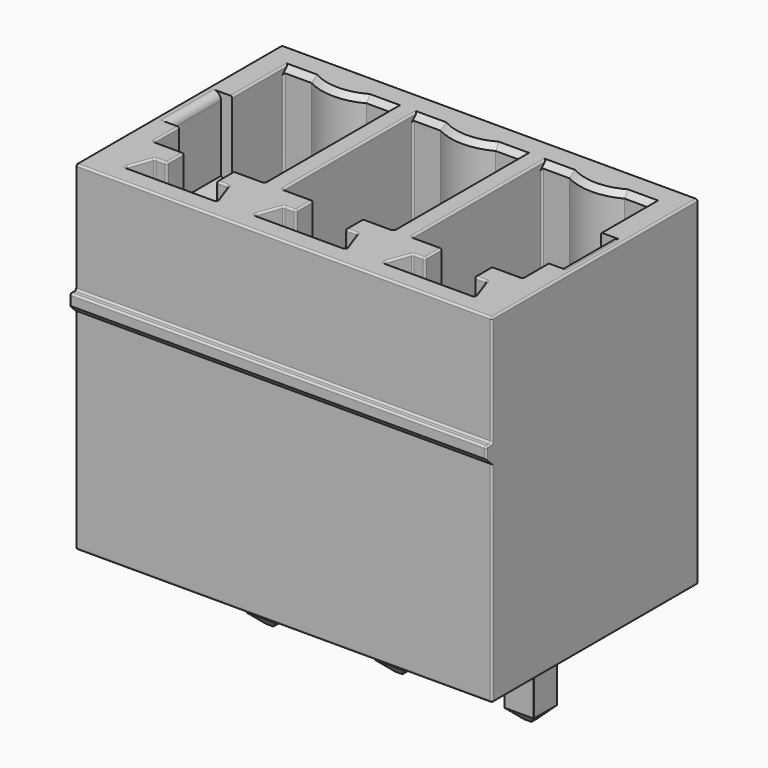
from build123d import *

# Parameters (mm, degrees)
SKETCH_W               = 0.8
SKETCH_H               = 0.8
PAD_DEPTH              = 10.4
CHAMFER_SIZE           = 0.3
CHAMFER001_SIZE        = 0.3
CHAMFER002_SIZE        = 0.3
CHAMFER003_SIZE        = 0.3
CHAMFER004_SIZE        = 0.3
CHAMFER005_SIZE        = 0.3
CHAMFER006_SIZE        = 0.3
CHAMFER007_SIZE        = 0.3
CHAMFER008_SIZE        = 0.3
FILLET_R               = 0.01
FILLET001_R            = 0.01
FILLET002_R            = 0.01
SKETCH004_W            = 0.8
SKETCH004_H            = 0.8
PAD002_DEPTH           = 10.4
SKETCH001_W            = 11.3
SKETCH001_H            = 7
PAD001_DEPTH           = 9.2
POCKET_DEPTH           = 8
LINEARPATTERN_COUNT    = 3
LINEARPATTERN_PITCH    = 3.5
SKETCH003_W            = 1.3
SKETCH003_H            = 1.8
POCKET001_DEPTH        = 2
SKETCH005_R            = 1
PAD003_DEPTH           = 1.2
LINEARPATTERN001_COUNT = 3
LINEARPATTERN001_PITCH = 3.5
SKETCH006_W            = 11.3
SKETCH006_H            = 0.5
PAD004_DEPTH           = 0.2
CHAMFER009_SIZE        = 0.1999
CHAMFER010_SIZE        = 0.15
CHAMFER011_SIZE        = 0.15
CHAMFER012_SIZE        = 0.15
CHAMFER013_SIZE        = 0.15
CHAMFER014_SIZE        = 0.15
CHAMFER015_SIZE        = 0.15
FILLET003_R            = 0.4
FILLET004_R            = 0.4
FILLET005_R            = 0.4
CHAMFER016_SIZE        = 0.29999
CHAMFER017_SIZE        = 0.29999
FILLET006_R            = 0.2
FILLET007_R            = 0.2
FILLET008_R            = 0.05
FILLET009_R            = 0.05
FILLET010_R            = 0.05
FILLET011_R            = 0.05
FILLET012_R            = 0.05
FILLET013_R            = 0.05
FILLET014_R            = 0.05
FILLET015_R            = 0.05
FILLET016_R            = 0.05
FILLET017_R            = 0.05
FILLET018_R            = 0.05
FILLET019_R            = 0.05
FILLET020_R            = 0.05
FILLET021_R            = 0.05
FILLET022_R            = 0.05
FILLET023_R            = 0.05
FILLET024_R            = 0.05
FILLET025_R            = 0.05
FILLET026_R            = 0.05
FILLET027_R            = 0.049
FILLET028_R            = 0.049
FILLET029_R            = 0.05
FILLET030_R            = 0.05
FILLET031_R            = 0.049
FILLET032_R            = 0.049
FILLET033_R            = 0.049
FILLET034_R            = 0.049


with BuildPart() as contacts:
    # Sketch → Pad (new body)
    with BuildSketch(Plane(origin=(0, 0, -1.5), x_dir=(1, 0, 0), z_dir=(0, 0, -1))):
        with Locations((-3.5, 0)):
            Rectangle(SKETCH_W, SKETCH_H)
        Rectangle(SKETCH_W, SKETCH_H)
        with Locations((3.5, 0)):
            Rectangle(SKETCH_W, SKETCH_H)
    extrude(amount=PAD_DEPTH)

    # Chamfer
    chamfer_edges = [contacts.edges().sort_by_distance(p)[0] for p in [
        (-3.5, -0.4, -1.5),
    ]]
    chamfer(chamfer_edges, length=CHAMFER_SIZE)

    # Chamfer001
    chamfer001_edges = [contacts.edges().sort_by_distance(p)[0] for p in [
        (-3.5, 0.4, -1.5),
    ]]
    chamfer(chamfer001_edges, length=CHAMFER001_SIZE)

    # Chamfer002
    chamfer002_edges = [contacts.edges().sort_by_distance(p)[0] for p in [
        (-3.1, 0, -1.5),
    ]]
    chamfer(chamfer002_edges, length=CHAMFER002_SIZE)

    # Chamfer003
    chamfer003_edges = [contacts.edges().sort_by_distance(p)[0] for p in [
        (-3.9, 0, -1.5),
    ]]
    chamfer(chamfer003_edges, length=CHAMFER003_SIZE)

    # Chamfer004
    chamfer004_edges = [contacts.edges().sort_by_distance(p)[0] for p in [
        (-0.4, 0, -1.5),
        (0, -0.4, -1.5),
        (0.4, 0, -1.5),
        (0, 0.4, -1.5),
    ]]
    chamfer(chamfer004_edges, length=CHAMFER004_SIZE)

    # Chamfer005
    chamfer005_edges = [contacts.edges().sort_by_distance(p)[0] for p in [
        (3.1, 0, -1.5),
        (3.5, -0.4, -1.5),
        (3.9, 0, -1.5),
        (3.5, 0.4, -1.5),
    ]]
    chamfer(chamfer005_edges, length=CHAMFER005_SIZE)

    # Chamfer006
    chamfer006_edges = [contacts.edges().sort_by_distance(p)[0] for p in [
        (-3.9, 0, -11.9),
        (-3.5, -0.4, -11.9),
        (-3.1, 0, -11.9),
        (-3.5, 0.4, -11.9),
    ]]
    chamfer(chamfer006_edges, length=CHAMFER006_SIZE)

    # Chamfer007
    chamfer007_edges = [contacts.edges().sort_by_distance(p)[0] for p in [
        (0, 0.4, -11.9),
        (0.4, 0, -11.9),
        (-0.4, 0, -11.9),
        (0, -0.4, -11.9),
    ]]
    chamfer(chamfer007_edges, length=CHAMFER007_SIZE)

    # Chamfer008
    chamfer008_edges = [contacts.edges().sort_by_distance(p)[0] for p in [
        (3.5, 0.4, -11.9),
        (3.9, 0, -11.9),
        (3.5, -0.4, -11.9),
        (3.1, 0, -11.9),
    ]]
    chamfer(chamfer008_edges, length=CHAMFER008_SIZE)

    # Fillet
    fillet_edges = [contacts.edges().sort_by_distance(p)[0] for p in [
        (-3.1, -0.4, -6.7),
        (-3.9, -0.4, -6.7),
        (-3.1, 0.4, -6.7),
        (-3.9, 0.4, -6.7),
    ]]
    fillet(fillet_edges, radius=FILLET_R)

    # Fillet001
    fillet001_edges = [contacts.edges().sort_by_distance(p)[0] for p in [
        (0.4, -0.4, -6.7),
        (-0.4, -0.4, -6.7),
        (0.4, 0.4, -6.7),
        (-0.4, 0.4, -6.7),
    ]]
    fillet(fillet001_edges, radius=FILLET001_R)

    # Fillet002
    fillet002_edges = [contacts.edges().sort_by_distance(p)[0] for p in [
        (3.9, -0.4, -6.7),
        (3.1, -0.4, -6.7),
        (3.9, 0.4, -6.7),
        (3.1, 0.4, -6.7),
    ]]
    fillet(fillet002_edges, radius=FILLET002_R)


with BuildPart() as pad002:
    # Sketch004 → Pad002 (new body)
    with BuildSketch(Plane(origin=(0, 0, -2), x_dir=(1, 0, 0), z_dir=(0, 0, -1))):
        with Locations((-3.5, 0)):
            Rectangle(SKETCH004_W, SKETCH004_H)
        Rectangle(SKETCH004_W, SKETCH004_H)
        with Locations((3.5, 0)):
            Rectangle(SKETCH004_W, SKETCH004_H)
    extrude(amount=PAD002_DEPTH)


with BuildPart() as module:
    # Sketch001 → Pad001 (new body)
    with BuildSketch(Plane(origin=(0, 0, 0), x_dir=(1, 0, 0), z_dir=(0, 0, -1))):
        with Locations((0, 0.5)):
            Rectangle(SKETCH001_W, SKETCH001_H)
    extrude(amount=PAD001_DEPTH)

    # Sketch002 → Pocket (cut)
    with BuildSketch(Plane.XY):
        with BuildLine():
            Line((-2, 2.25), (-2.75, 2.25))
            ThreePointArc((-4.25, 2.25), (-3.5, 2.063329), (-2.75, 2.25))
            Line((-4.25, 2.25), (-5, 2.25))
            Line((-5, 2.25), (-5, -2.15))
            Line((-5, -2.15), (-4.17, -2.15))
            Line((-4.17, -2.15), (-4.17, -2.75))
            Line((-4.17, -2.75), (-4.5, -2.75))
            Line((-4.5, -2.75), (-4.75, -3.45))
            Line((-4.75, -3.45), (-2.25, -3.45))
            Line((-2.25, -3.45), (-2.5, -2.75))
            Line((-2.5, -2.75), (-2.83, -2.75))
            Line((-2.83, -2.75), (-2.83, -2.15))
            Line((-2.83, -2.15), (-2, -2.15))
            Line((-2, -2.15), (-2, 2.25))
        make_face()
    pocket = extrude(amount=-POCKET_DEPTH, mode=Mode.SUBTRACT)

    # LinearPattern: Pocket ×3
    with Locations(*[(i * LINEARPATTERN_PITCH, 0, 0) for i in range(1, LINEARPATTERN_COUNT)]):
        add(pocket, mode=Mode.SUBTRACT)

    # Sketch003 → Pocket001 (cut)
    with BuildSketch(Plane.XY):
        with Locations((-4.65, -0.4)):
            Rectangle(SKETCH003_W, SKETCH003_H)
        with Locations((4.65, -0.4)):
            Rectangle(SKETCH003_W, SKETCH003_H)
    extrude(amount=-POCKET001_DEPTH, mode=Mode.SUBTRACT)

    # Sketch005 → Pad003 (new body)
    with BuildSketch(Plane.XY.offset(-8)):
        with Locations((-3.5, 0)):
            Circle(SKETCH005_R)
    pad003 = extrude(amount=PAD003_DEPTH)

    # LinearPattern001: Pad003 ×3
    with Locations(*[(i * LINEARPATTERN001_PITCH, 0, 0) for i in range(1, LINEARPATTERN001_COUNT)]):
        add(pad003)

    # Cut: cut Pad002
    add(pad002.part, mode=Mode.SUBTRACT)

    # Sketch006 → Pad004 (new body)
    with BuildSketch(Plane.XZ.offset(4)):
        with Locations((0, -3.25)):
            Rectangle(SKETCH006_W, SKETCH006_H)
    extrude(amount=PAD004_DEPTH)

    # Chamfer009
    chamfer009_edges = [module.edges().sort_by_distance(p)[0] for p in [
        (0, -4.2, -3.5),
    ]]
    chamfer(chamfer009_edges, length=CHAMFER009_SIZE)

    # Chamfer010
    chamfer010_edges = [module.edges().sort_by_distance(p)[0] for p in [
        (-4.625, 2.25, 0),
        (-2.375, 2.25, 0),
    ]]
    chamfer(chamfer010_edges, length=CHAMFER010_SIZE)

    # Chamfer011
    chamfer011_edges = [module.edges().sort_by_distance(p)[0] for p in [
        (-3.5, 2.063329, 0),
    ]]
    chamfer(chamfer011_edges, length=CHAMFER011_SIZE)

    # Chamfer012
    chamfer012_edges = [module.edges().sort_by_distance(p)[0] for p in [
        (-1.125, 2.25, 0),
        (1.125, 2.25, 0),
    ]]
    chamfer(chamfer012_edges, length=CHAMFER012_SIZE)

    # Chamfer013
    chamfer013_edges = [module.edges().sort_by_distance(p)[0] for p in [
        (0, 2.063329, 0),
    ]]
    chamfer(chamfer013_edges, length=CHAMFER013_SIZE)

    # Chamfer014
    chamfer014_edges = [module.edges().sort_by_distance(p)[0] for p in [
        (2.375, 2.25, 0),
        (4.625, 2.25, 0),
    ]]
    chamfer(chamfer014_edges, length=CHAMFER014_SIZE)

    # Chamfer015
    chamfer015_edges = [module.edges().sort_by_distance(p)[0] for p in [
        (3.5, 2.063329, 0),
    ]]
    chamfer(chamfer015_edges, length=CHAMFER015_SIZE)

    # Fillet003
    fillet003_edges = [module.edges().sort_by_distance(p)[0] for p in [
        (-4.5, 0, -6.8),
    ]]
    fillet(fillet003_edges, radius=FILLET003_R)

    # Fillet004
    fillet004_edges = [module.edges().sort_by_distance(p)[0] for p in [
        (-1, 0, -6.8),
    ]]
    fillet(fillet004_edges, radius=FILLET004_R)

    # Fillet005
    fillet005_edges = [module.edges().sort_by_distance(p)[0] for p in [
        (2.5, 0, -6.8),
    ]]
    fillet(fillet005_edges, radius=FILLET005_R)

    # Chamfer016
    chamfer016_edges = [module.edges().sort_by_distance(p)[0] for p in [
        (-5, -0.4, -2),
    ]]
    chamfer(chamfer016_edges, length=CHAMFER016_SIZE)

    # Chamfer017
    chamfer017_edges = [module.edges().sort_by_distance(p)[0] for p in [
        (5, -0.4, -2),
    ]]
    chamfer(chamfer017_edges, length=CHAMFER017_SIZE)

    # Fillet006
    fillet006_edges = [module.edges().sort_by_distance(p)[0] for p in [
        (-5.3, -0.4, 0),
    ]]
    fillet(fillet006_edges, radius=FILLET006_R)

    # Fillet007
    fillet007_edges = [module.edges().sort_by_distance(p)[0] for p in [
        (5.3, -0.4, 0),
    ]]
    fillet(fillet007_edges, radius=FILLET007_R)

    # Fillet008
    fillet008_edges = [module.edges().sort_by_distance(p)[0] for p in [
        (-2, -2.15, -4),
        (-2, 2.25, -4.075),
        (-5, -2.15, -4),
        (-5, 2.25, -4.075),
    ]]
    fillet(fillet008_edges, radius=FILLET008_R)

    # Fillet009
    fillet009_edges = [module.edges().sort_by_distance(p)[0] for p in [
        (-4.17, -2.15, -4),
        (-2.83, -2.15, -4),
        (-4.17, -2.75, -4),
        (-2.83, -2.75, -4),
        (-2.5, -2.75, -4),
        (-4.5, -2.75, -4),
        (-4.75, -3.45, -4),
        (-2.25, -3.45, -4),
    ]]
    fillet(fillet009_edges, radius=FILLET009_R)

    # Fillet010
    fillet010_edges = [module.edges().sort_by_distance(p)[0] for p in [
        (-1.5, 2.25, -4.075),
        (1.5, 2.25, -4.075),
        (-1.5, -2.15, -4),
        (1.5, -2.15, -4),
    ]]
    fillet(fillet010_edges, radius=FILLET010_R)

    # Fillet011
    fillet011_edges = [module.edges().sort_by_distance(p)[0] for p in [
        (0.67, -2.15, -4),
        (-0.67, -2.15, -4),
        (-0.67, -2.75, -4),
        (0.67, -2.75, -4),
        (1, -2.75, -4),
        (-1, -2.75, -4),
        (-1.25, -3.45, -4),
        (1.25, -3.45, -4),
    ]]
    fillet(fillet011_edges, radius=FILLET011_R)

    # Fillet012
    fillet012_edges = [module.edges().sort_by_distance(p)[0] for p in [
        (2, 2.25, -4.075),
        (2, -2.15, -4),
        (5, 2.25, -4.075),
        (5, -2.15, -4),
    ]]
    fillet(fillet012_edges, radius=FILLET012_R)

    # Fillet013
    fillet013_edges = [module.edges().sort_by_distance(p)[0] for p in [
        (2.83, -2.15, -4),
        (4.17, -2.15, -4),
        (2.83, -2.75, -4),
        (4.17, -2.75, -4),
        (2.5, -2.75, -4),
        (2.25, -3.45, -4),
        (4.5, -2.75, -4),
        (4.75, -3.45, -4),
    ]]
    fillet(fillet013_edges, radius=FILLET013_R)

    # Fillet014
    fillet014_edges = [module.edges().sort_by_distance(p)[0] for p in [
        (2, 0.075, 0),
    ]]
    fillet(fillet014_edges, radius=FILLET014_R)

    # Fillet015
    fillet015_edges = [module.edges().sort_by_distance(p)[0] for p in [
        (5, 1.375, 0),
    ]]
    fillet(fillet015_edges, radius=FILLET015_R)

    # Fillet016
    fillet016_edges = [module.edges().sort_by_distance(p)[0] for p in [
        (-1.5, 0.075, 0),
    ]]
    fillet(fillet016_edges, radius=FILLET016_R)

    # Fillet017
    fillet017_edges = [module.edges().sort_by_distance(p)[0] for p in [
        (-2, 0.075, 0),
    ]]
    fillet(fillet017_edges, radius=FILLET017_R)

    # Fillet018
    fillet018_edges = [module.edges().sort_by_distance(p)[0] for p in [
        (-5, 1.375, 0),
    ]]
    fillet(fillet018_edges, radius=FILLET018_R)

    # Fillet019
    fillet019_edges = [module.edges().sort_by_distance(p)[0] for p in [
        (-4.5, 0, -8),
    ]]
    fillet(fillet019_edges, radius=FILLET019_R)

    # Fillet020
    fillet020_edges = [module.edges().sort_by_distance(p)[0] for p in [
        (-5, 0.05, -8),
    ]]
    fillet(fillet020_edges, radius=FILLET020_R)

    # Fillet021
    fillet021_edges = [module.edges().sort_by_distance(p)[0] for p in [
        (-1, 0, -8),
    ]]
    fillet(fillet021_edges, radius=FILLET021_R)

    # Fillet022
    fillet022_edges = [module.edges().sort_by_distance(p)[0] for p in [
        (-1.5, 0.05, -8),
    ]]
    fillet(fillet022_edges, radius=FILLET022_R)

    # Fillet023
    fillet023_edges = [module.edges().sort_by_distance(p)[0] for p in [
        (2.5, 0, -8),
    ]]
    fillet(fillet023_edges, radius=FILLET023_R)

    # Fillet024
    fillet024_edges = [module.edges().sort_by_distance(p)[0] for p in [
        (2, 0.05, -8),
    ]]
    fillet(fillet024_edges, radius=FILLET024_R)

    # Fillet025
    fillet025_edges = [module.edges().sort_by_distance(p)[0] for p in [
        (5.65, -0.5, 0),
        (0, 3, 0),
        (-5.65, -0.5, 0),
        (0, -4, 0),
    ]]
    fillet(fillet025_edges, radius=FILLET025_R)

    # Fillet026
    fillet026_edges = [module.edges().sort_by_distance(p)[0] for p in [
        (0, -4, -9.2),
        (5.65, -0.5, -9.2),
        (-5.65, -0.5, -9.2),
        (0, 3, -9.2),
    ]]
    fillet(fillet026_edges, radius=FILLET026_R)

    # Fillet027
    fillet027_edges = [module.edges().sort_by_distance(p)[0] for p in [
        (5.65, 3, -4.6),
    ]]
    fillet(fillet027_edges, radius=FILLET027_R)

    # Fillet028
    fillet028_edges = [module.edges().sort_by_distance(p)[0] for p in [
        (-5.65, 3, -4.6),
    ]]
    fillet(fillet028_edges, radius=FILLET028_R)

    # Fillet029
    fillet029_edges = [module.edges().sort_by_distance(p)[0] for p in [
        (0, -4, -3),
    ]]
    fillet(fillet029_edges, radius=FILLET029_R)

    # Fillet030
    fillet030_edges = [module.edges().sort_by_distance(p)[0] for p in [
        (0, -4.2, -3),
    ]]
    fillet(fillet030_edges, radius=FILLET030_R)

    # Fillet031
    fillet031_edges = [module.edges().sort_by_distance(p)[0] for p in [
        (-5.65, -4, -1.5),
    ]]
    fillet(fillet031_edges, radius=FILLET031_R)

    # Fillet032
    fillet032_edges = [module.edges().sort_by_distance(p)[0] for p in [
        (-5.65, -4, -6.325),
    ]]
    fillet(fillet032_edges, radius=FILLET032_R)

    # Fillet033
    fillet033_edges = [module.edges().sort_by_distance(p)[0] for p in [
        (5.65, -4, -6.325),
    ]]
    fillet(fillet033_edges, radius=FILLET033_R)

    # Fillet034
    fillet034_edges = [module.edges().sort_by_distance(p)[0] for p in [
        (5.65, -4, -1.5),
    ]]
    fillet(fillet034_edges, radius=FILLET034_R)


solid = Compound([contacts.part, module.part])
